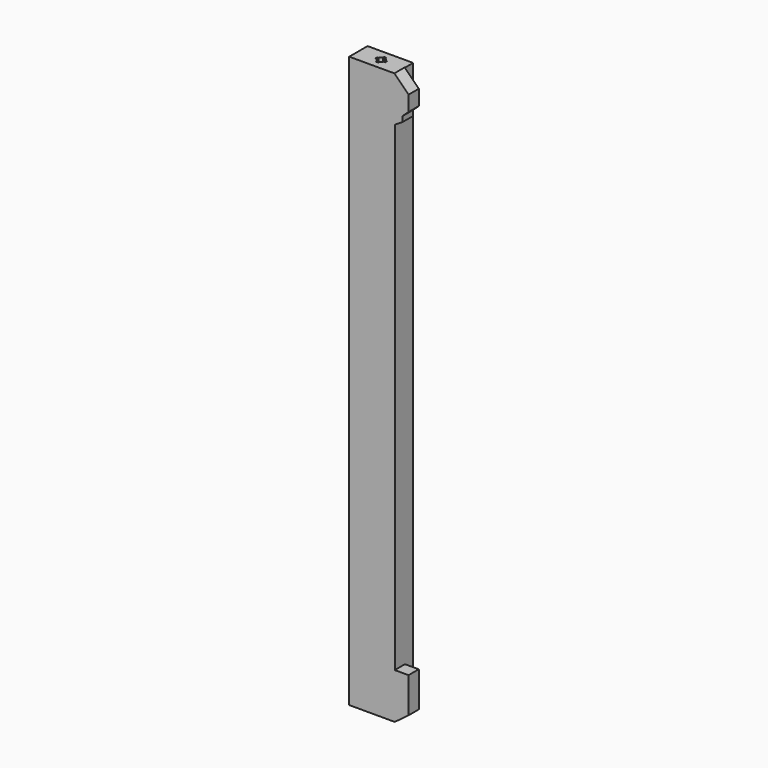
from build123d import *

# Parameters (mm, degrees)
F1_DEPTH = 5
F2_W     = 17.85
F2_H     = 223.862902
F3_DEPTH = 4
F5_DEPTH = 3


with BuildPart() as f1:
    # F0 (on Front) → F1 (new body)
    with BuildSketch(Plane.XZ):
        Polygon((17.692703, 111.931451), (0, 111.931451), (0, -111.931451), (17.85, -111.931451), (23.26, -107.9006), (23.26, -94.031428), (17.85, -94.031428), (17.85, 94.281451), (20.929774, 96.176705), (20.929774, 98.249632), (23.26, 100.407617), (23.26, 106.389501), align=None)
    extrude(amount=F1_DEPTH)

    # F2 (on face) → F3 (join)
    with BuildSketch(Plane(origin=(0, 0, 0), x_dir=(-1, 0, 0), z_dir=(0, 1, 0))):
        with Locations((-8.925, 0)):
            Rectangle(F2_W, F2_H)
    extrude(amount=F3_DEPTH)


with BuildPart() as f5:
    # F4 (on face) → F5 (new body)
    with BuildSketch(Plane.XY.offset(111.931451)):
        with BuildLine():
            Line((6.925, -1), (7.510786, -1))
            ThreePointArc((7.510786, -1), (7.86434, -1.56066), (8.425, -1.914214))
            Line((8.425, -1.914214), (8.425, -2.5))
            Line((8.425, -2.5), (9.425, -2.5))
            Line((9.425, -2.5), (9.425, -1.914214))
            ThreePointArc((9.425, -1.914214), (9.98566, -1.56066), (10.339214, -1))
            Line((10.339214, -1), (10.925, -1))
            Line((10.925, -1), (10.925, 0))
            Line((10.925, 0), (10.339214, 0))
            ThreePointArc((10.339214, 0), (9.98566, 0.56066), (9.425, 0.914214))
            Line((9.425, 0.914214), (9.425, 1.5))
            Line((9.425, 1.5), (8.425, 1.5))
            Line((8.425, 1.5), (8.425, 0.914214))
            ThreePointArc((8.425, 0.914214), (7.86434, 0.56066), (7.510786, 0))
            Line((7.510786, 0), (6.925, 0))
            Line((6.925, 0), (6.925, -1))
        make_face()
    extrude(amount=-F5_DEPTH)


with BuildPart() as f6_1:
    # F6: instance of F5
    add(f5.part.mirror(Plane.XY))


with BuildPart() as f1_1:
    add(f1.part)

    # F7: cut F5
    add(f5.part, mode=Mode.SUBTRACT)

    # F8: cut F6_1
    add(f6_1.part, mode=Mode.SUBTRACT)


solid = f1_1.part
